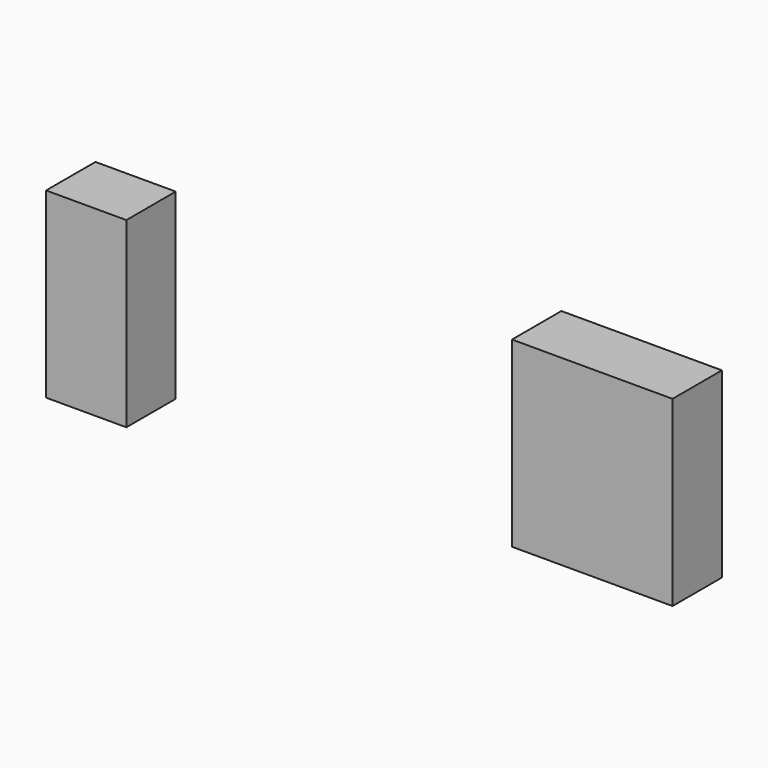
from build123d import *

# Parameters (mm, degrees)
F0_W      = 32.505735755
F0_H      = 73.8766938448
F1_DEPTH  = 25
F2_FACE_W = 25
F2_FACE_H = 73.8766938448


with BuildPart() as f1:
    # F0 (on Front) → F1 (new body)
    with BuildSketch(Plane.XZ):
        with Locations((-66.579721868, 0.0269040465)):
            Rectangle(F0_W, F0_H)
    extrude(amount=F1_DEPTH)


with BuildPart() as f2_1:
    # F2: instance of F1
    add(f1.part.mirror(Plane.YZ))

    # F4: sweep along a path in F4_path
    with BuildLine(Plane(origin=(-170.8325897455, -25, -45.1114428759), x_dir=(0, 1, 0), z_dir=(0, 0, 1))) as f4_path:
        Line((0, 0), (0, -32.505735755))
    # F2_face (on face) → F4 (sweep)
    with BuildSketch(Plane(origin=(50.3268539906, -12.5, 0.0269040465), x_dir=(0, -1, 0), z_dir=(-1, 0, 0))):
        Rectangle(F2_FACE_W, F2_FACE_H)
    sweep(path=f4_path.line)


with BuildPart() as f1_1:
    # F3: moved
    add(f1.part.moved(Location((-88, 0, -8.2))))


solid = Compound([f2_1.part, f1_1.part])
